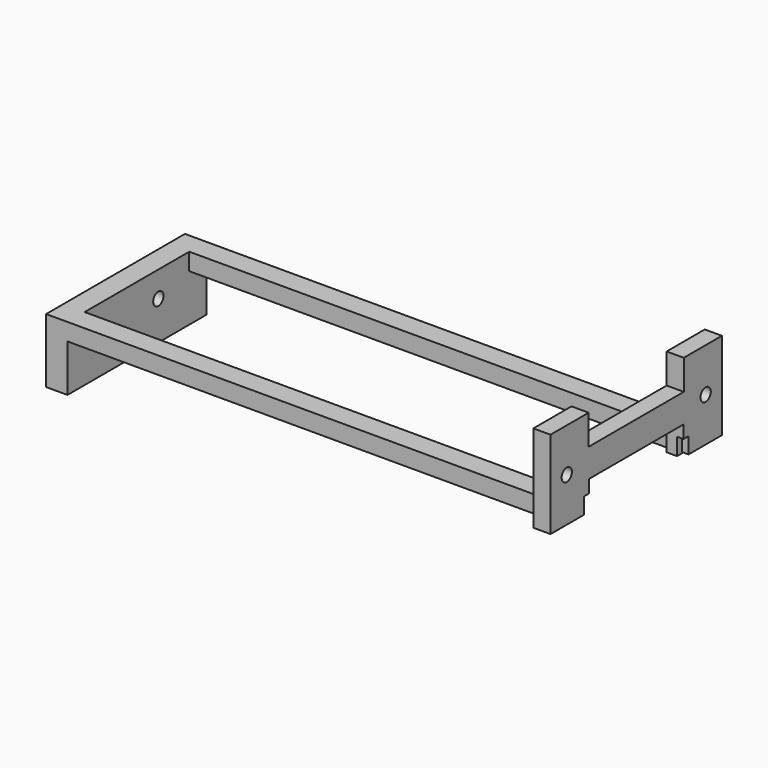
from build123d import *

# Parameters (mm, degrees)
F0_W     = 120
F0_H     = 40.5
F0_W_2   = 115
F0_H_2   = 30.5
F1_DEPTH = 4
F2_W     = 40.5
F2_H     = 11.0000007078
F2_R     = 1.5
F2_H_2   = 4
F3_DEPTH = 5
F4_R     = 1.5
F5_DEPTH = 4
F4_W     = 27.5345724076
F4_H     = 3
F4_H_2   = 0.2320672698
F4_H_3   = 7
F4_H_4   = 3.7679327302
F6_DEPTH = 4.001


with BuildPart() as f1:
    # F0 (on Top) → F1 (new body)
    with BuildSketch(Plane.XY):
        Rectangle(F0_W, F0_H)
        Rectangle(F0_W_2, F0_H_2, mode=Mode.SUBTRACT)
    extrude(amount=F1_DEPTH)

    # F2 (on face) → F3 (join)
    with BuildSketch(Plane(origin=(-60, 0, 0), x_dir=(0, -1, 0), z_dir=(-1, 0, 0))):
        with Locations((0, -5.5000003539)):
            Rectangle(F2_W, F2_H)
        with Locations((-6.25, -2)):
            Circle(F2_R, mode=Mode.SUBTRACT)
        with Locations((0, 2)):
            Rectangle(F2_W, F2_H_2)
    extrude(amount=-F3_DEPTH)

    # F4 (on face) → F5 (join)
    with BuildSketch(Plane(origin=(57.5, 0, 0), x_dir=(0, -1, 0), z_dir=(-1, 0, 0))):
        Polygon((25, 0.2320672698), (25, 20.6540079332), (13.8721717522, 20.6540079332), (13.8721717522, 13.6540079332), (-13.8721717522, 13.6540079332), (-13.8721717522, 20.6540079332), (-25, 20.6540079332), (-25, 0.2320672698), (-15.25, 0.2320672698), (-15.25, 4), (-13.7672862038, 4), (-13.7672862038, 7), (13.7672862038, 7), (13.7672862038, 4), (15.25, 4), (15.25, 0.2320672698), align=None)
        with Locations((-20.25, 10.5)):
            Circle(F4_R, mode=Mode.SUBTRACT)
        with Locations((20.25, 10.5)):
            Circle(F4_R, mode=Mode.SUBTRACT)
    extrude(amount=-F5_DEPTH)

    # F4 (on face) → F6 (cut, through all)
    with BuildSketch(Plane(origin=(57.5, 0, 0), x_dir=(0, -1, 0), z_dir=(-1, 0, 0))):
        with Locations((0, 5.5)):
            Rectangle(F4_W, F4_H)
        with Locations((0, 0.1160336349)):
            Rectangle(F4_W, F4_H_2)
        with Locations((0, -3.5)):
            Rectangle(F4_W, F4_H_3)
        with Locations((0, 2.1160336349)):
            Rectangle(F4_W, F4_H_4)
    extrude(amount=-F6_DEPTH, mode=Mode.SUBTRACT)


solid = f1.part
